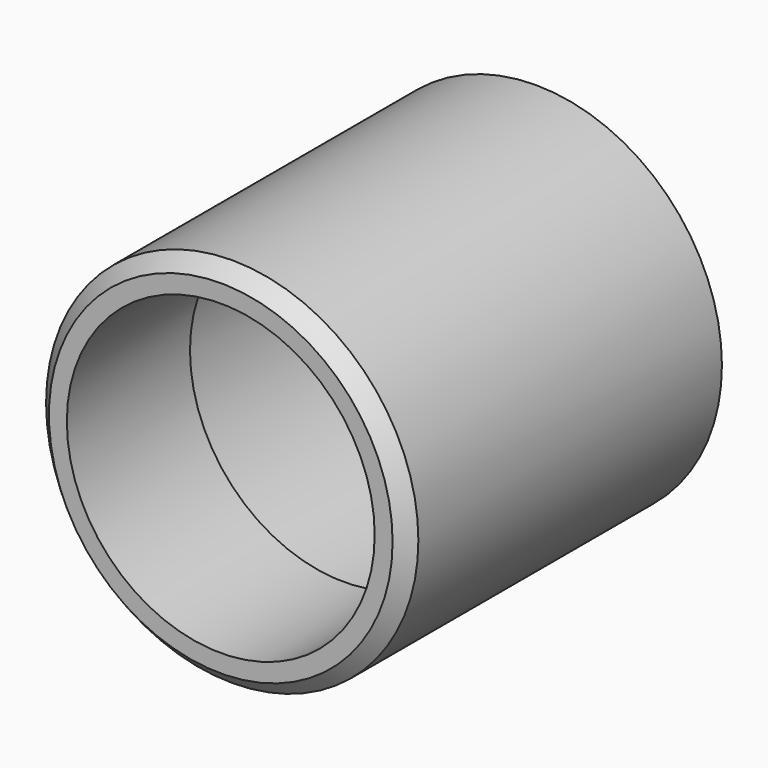
from build123d import *

# Parameters (mm, degrees)
F0_R     = 26
F0_R_2   = 24.5
F1_DEPTH = 55
F2_R     = 24.5
F2_R_2   = 21.5
F3_DEPTH = 21.5
F4_SIZE  = 2
F5_SIZE  = 1


with BuildPart() as f1:
    # F0 (on Front) → F1 (new body)
    with BuildSketch(Plane.XZ):
        Circle(F0_R)
        Circle(F0_R_2, mode=Mode.SUBTRACT)
    extrude(amount=F1_DEPTH)

    # F2 (on face) → F3 (join)
    with BuildSketch(Plane.XZ.offset(55)):
        Circle(F2_R)
        Circle(F2_R_2, mode=Mode.SUBTRACT)
    extrude(amount=-F3_DEPTH)

    # F4
    f4_edges = [f1.edges().sort_by_distance(p)[0] for p in [
        (-26, -55, 0),
    ]]
    chamfer(f4_edges, length=F4_SIZE)

    # F5
    f5_edges = [f1.edges().sort_by_distance(p)[0] for p in [
        (-24.5, 0, 0),
    ]]
    chamfer(f5_edges, length=F5_SIZE)


solid = f1.part
